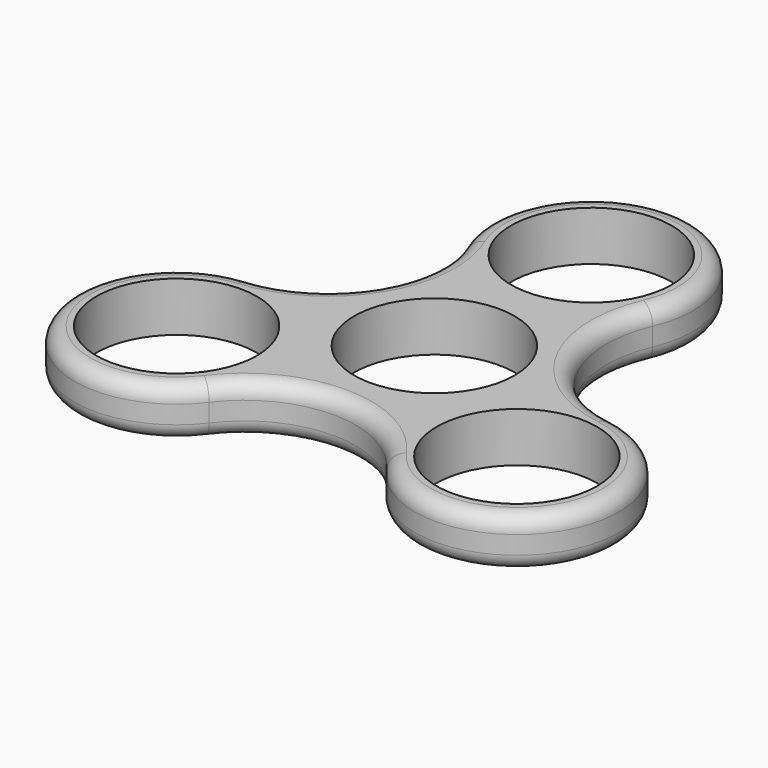
from build123d import *

# Parameters (mm, degrees)
F0_R     = 12.9921
F1_DEPTH = 8.0264
F2_R     = 2.54
F3_R     = 2.54


with BuildPart() as f1:
    # F0 (on Top) → F1 (new body)
    with BuildSketch(Plane.XY):
        with BuildLine():
            ThreePointArc((-15.190386, 25.282213), (-16.326972, 8.96601), (-30.209694, 0.318447))
            ThreePointArc((-30.209694, 0.318447), (-43.252469, -24.127829), (-15.611433, -26.053302))
            ThreePointArc((-15.611433, -26.053302), (-0.912893, -18.879513), (13.517478, -26.578521))
            ThreePointArc((13.517478, -26.578521), (41.074317, -25.87225), (29.571536, -0.821018))
            ThreePointArc((29.571536, -0.821018), (15.975981, 8.658485), (15.16051, 25.21249))
            ThreePointArc((15.16051, 25.21249), (0.037928, 48.259956), (-15.190386, 25.282213))
        make_face()
        with Locations((-28.807893, -16.131935)):
            Circle(F0_R, mode=Mode.SUBTRACT)
        with Locations((27.063025, -17.139335)):
            Circle(F0_R, mode=Mode.SUBTRACT)
        Circle(F0_R, mode=Mode.SUBTRACT)
        with Locations((0, 31.75)):
            Circle(F0_R, mode=Mode.SUBTRACT)
    extrude(amount=F1_DEPTH)

    # F2
    f2_edges = [f1.edges().sort_by_distance(p)[0] for p in [
        (-0.912893, -18.879513, 8.0264),
        (-43.252469, -24.127829, 8.0264),
        (-16.326972, 8.96601, 8.0264),
        (0.037928, 48.259956, 8.0264),
        (15.975981, 8.658485, 8.0264),
        (41.074317, -25.87225, 8.0264),
    ]]
    fillet(f2_edges, radius=F2_R)

    # F3
    f3_edges = [f1.edges().sort_by_distance(p)[0] for p in [
        (-16.326972, 8.96601, 0),
        (-43.252469, -24.127829, 0),
        (-0.912893, -18.879513, 0),
        (15.975981, 8.658485, 0),
        (41.074317, -25.87225, 0),
        (0.037928, 48.259956, 0),
    ]]
    fillet(f3_edges, radius=F3_R)


solid = f1.part
